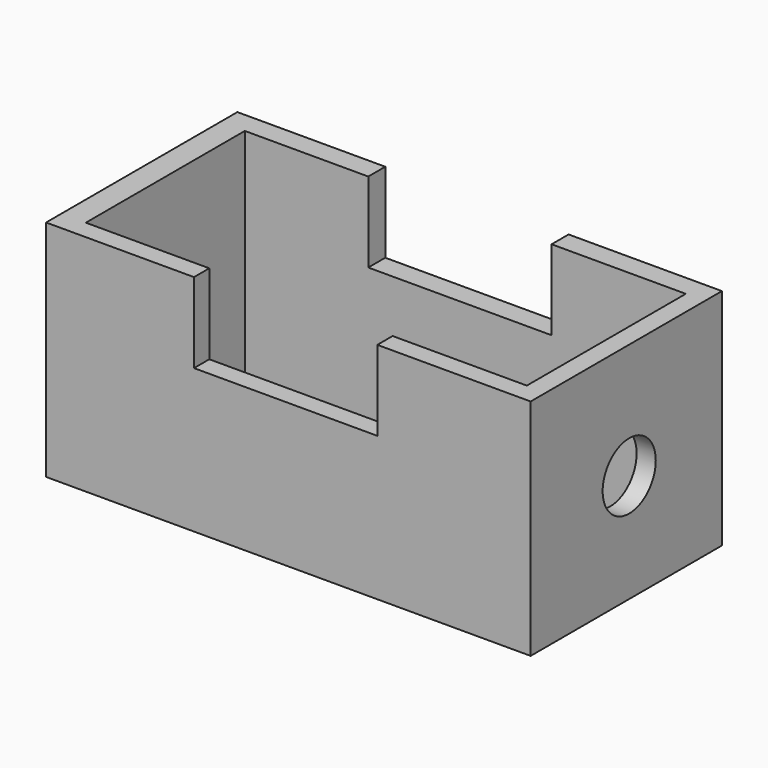
from build123d import *

# Parameters (mm, degrees)
F0_W     = 109.893255
F0_H     = 54.223648
F0_W_2   = 100.012504
F0_H_2   = 45.065875
F1_DEPTH = 50.8
F2_W     = 41.578656
F2_H     = 18.166602
F4_DEPTH = 70.612
F3_R     = 7.528812
F5_DEPTH = 124.714


with BuildPart() as f1:
    # F0 (on Top) → F1 (new body)
    with BuildSketch(Plane.XY):
        with Locations((4.458386, 16.628586)):
            Rectangle(F0_W, F0_H)
        with Locations((5.060874, 16.387591)):
            Rectangle(F0_W_2, F0_H_2, mode=Mode.SUBTRACT)
    extrude(amount=F1_DEPTH)

    # F2 (on face) → F4 (cut)
    with BuildSketch(Plane.XZ.offset(10.483238)):
        with Locations((3.844391, 41.716699)):
            Rectangle(F2_W, F2_H)
    extrude(amount=-F4_DEPTH, mode=Mode.SUBTRACT)

    # F3 (on face) → F5 (cut)
    with BuildSketch(Plane.YZ.offset(59.405014)):
        with Locations((17.456431, 24.588371)):
            Circle(F3_R)
    extrude(amount=-F5_DEPTH, mode=Mode.SUBTRACT)


solid = f1.part
